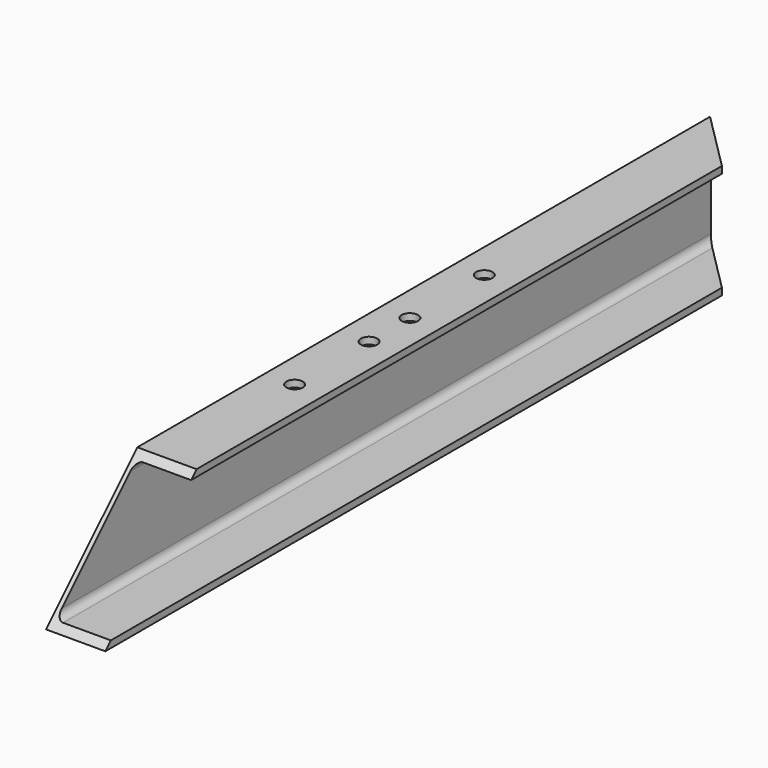
from build123d import *

# Parameters (mm, degrees)
F1_DEPTH = 910
F3_DEPTH = 125.001
F5_DEPTH = 65.001
F6_R     = 9
F7_DEPTH = 7.5
F8_R     = 9
F9_DEPTH = 7.5


with BuildPart() as f1:
    # F0 (on Front) → F1 (new body)
    with BuildSketch(Plane.XZ):
        with BuildLine():
            Line((0, 125), (0, 0))
            Line((0, 0), (65, 0))
            Line((65, 0), (65, 7.5))
            Line((65, 7.5), (12.7, 7.5))
            ThreePointArc((12.7, 7.5), (7.043146, 9.843146), (4.7, 15.5))
            Line((4.7, 15.5), (4.7, 109.5))
            ThreePointArc((4.7, 109.5), (7.043146, 115.156854), (12.7, 117.5))
            Line((12.7, 117.5), (65, 117.5))
            Line((65, 117.5), (65, 125))
            Line((65, 125), (0, 125))
        make_face()
    extrude(amount=F1_DEPTH)

    # F2 (on face) → F3 (cut, through all)
    with BuildSketch(Plane.XY.offset(125)):
        Polygon((65, -65), (65, 0), (0, 0), align=None)
    extrude(amount=-F3_DEPTH, mode=Mode.SUBTRACT)

    # F4 (on face) → F5 (cut, through all)
    with BuildSketch(Plane(origin=(0, 0, 0), x_dir=(0, -1, 0), z_dir=(-1, 0, 0))):
        Polygon((910, 0), (910, 125), (785, 125), align=None)
    extrude(amount=-F5_DEPTH, mode=Mode.SUBTRACT)

    # F6 (on face) → F7 (cut, through all)
    with BuildSketch(Plane.XY.offset(125)):
        with Locations((32.5, -350)):
            Circle(F6_R)
        with Locations((32.5, -452)):
            Circle(F6_R)
    extrude(amount=-F7_DEPTH, mode=Mode.SUBTRACT)

    # F8 (on face) → F9 (cut, through all)
    with BuildSketch(Plane.XY.offset(125)):
        with Locations((32.5, -508)):
            Circle(F8_R)
        with Locations((32.5, -610)):
            Circle(F8_R)
    extrude(amount=-F9_DEPTH, mode=Mode.SUBTRACT)


solid = f1.part
